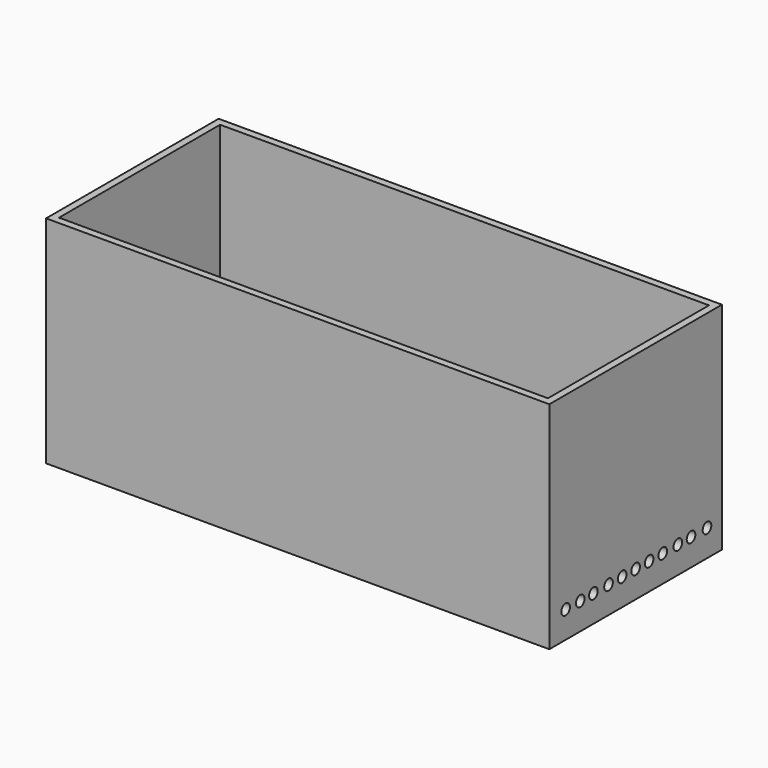
from build123d import *

# Parameters (mm, degrees)
F0_W     = 177.8
F0_H     = 76.2
F1_DEPTH = 76.2
F3_T     = -2.54
F4_D     = 3.81


with BuildPart() as f1:
    # F0 (on Top) → F1 (new body)
    with BuildSketch(Plane.XY):
        Rectangle(F0_W, F0_H)
    extrude(amount=F1_DEPTH)

    # F3
    f3_openings = [f1.faces().sort_by_distance(p)[0] for p in [
        (0, 0, 76.2),
    ]]
    offset(amount=F3_T, openings=f3_openings)

    # F4 (through all)
    with Locations(Plane.YZ.offset(88.9)):
        with Locations((-30.918453, 9.469561), (-24.460413, 9.469561), (-18.648177, 9.469561), (-5.947364, 9.469561), (-11.974867, 9.469561), (0, 9.469561), (5.947364, 9.469561), (11.974867, 9.469561), (18.648177, 9.469561), (24.460413, 9.469561), (31.509273, 9.469561)):
            Hole(F4_D / 2)


solid = f1.part
